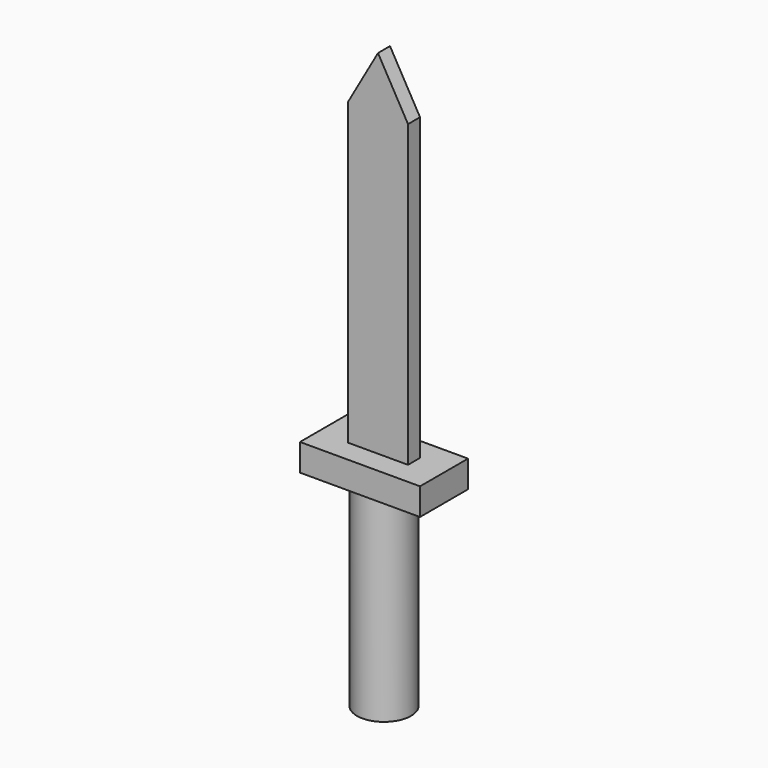
from build123d import *

# Parameters (mm, degrees)
F0_W     = 4.572
F0_H     = 35.56
F3_W     = 10.16
F3_H     = 5.08
F4_DEPTH = 4.572
F6_DEPTH = 1.27
F7_DEPTH = 1.27


with BuildPart() as f1:
    # F0 (on Front) → F1 (revolve)
    with BuildSketch(Plane.XZ):
        with Locations((-2.286, -1.974411)):
            Rectangle(F0_W, F0_H)
    revolve(axis=Axis((0, 0, -1.974411), (0, 0, -1)))


with BuildPart() as f4:
    # F3 (on offset) → F4 (new body)
    with BuildSketch(Plane.XY.offset(18.3388)):
        with Locations((-5.08, -2.54)):
            Rectangle(F3_W, F3_H)
        with Locations((5.08, -2.54)):
            Rectangle(F3_W, F3_H)
        with Locations((-5.08, 2.54)):
            Rectangle(F3_W, F3_H)
        with Locations((5.08, 2.54)):
            Rectangle(F3_W, F3_H)
    extrude(amount=-F4_DEPTH)

    # F5 (on Front) → F6 (join)
    with BuildSketch(Plane.XZ):
        Polygon((-5.08, 18.301688), (0, 18.301688), (5.08, 18.301688), (5.08, 69.101688), (0, 78.046853), (-5.08, 69.101688), align=None)
    extrude(amount=-F6_DEPTH)

    # F5 (on Front) → F7 (join)
    with BuildSketch(Plane.XZ):
        Polygon((-5.08, 18.301688), (0, 18.301688), (5.08, 18.301688), (5.08, 69.101688), (0, 78.046853), (-5.08, 69.101688), align=None)
    extrude(amount=F7_DEPTH)


solid = Compound([f1.part, f4.part])
